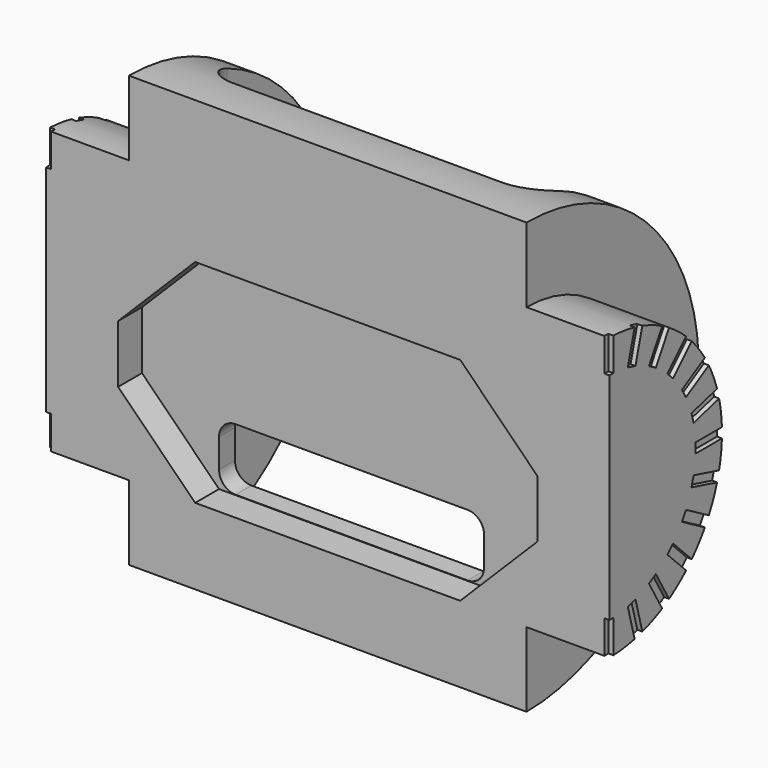
from build123d import *

# Parameters (mm, degrees)
REVOLUTION003_ANGLE                = -180
POCKET007_DEPTH                    = 80.350833
POCKET041_DEPTH                    = 1.8
SKETCH021_W                        = 20
SKETCH021_H                        = 30
POCKET009_DEPTH                    = 10.001
SKETCH022_W                        = 0.6
SKETCH022_H                        = 2
POCKET010_DEPTH                    = 0.3
SKETCH022_POLARPATTERN001_2_W      = 0.6
SKETCH022_POLARPATTERN001_2_H      = 2
POCKET010_POLARPATTERN001_2_DEPTH  = 0.3
SKETCH022_POLARPATTERN001_3_W      = 0.6
SKETCH022_POLARPATTERN001_3_H      = 2
POCKET010_POLARPATTERN001_3_DEPTH  = 0.3
SKETCH022_POLARPATTERN001_4_W      = 0.6
SKETCH022_POLARPATTERN001_4_H      = 2
POCKET010_POLARPATTERN001_4_DEPTH  = 0.3
SKETCH022_POLARPATTERN001_5_W      = 0.6
SKETCH022_POLARPATTERN001_5_H      = 2
POCKET010_POLARPATTERN001_5_DEPTH  = 0.3
SKETCH022_POLARPATTERN001_6_W      = 0.6
SKETCH022_POLARPATTERN001_6_H      = 2
POCKET010_POLARPATTERN001_6_DEPTH  = 0.3
SKETCH022_POLARPATTERN001_7_W      = 0.6
SKETCH022_POLARPATTERN001_7_H      = 2
POCKET010_POLARPATTERN001_7_DEPTH  = 0.3
SKETCH022_POLARPATTERN001_8_W      = 0.6
SKETCH022_POLARPATTERN001_8_H      = 2
POCKET010_POLARPATTERN001_8_DEPTH  = 0.3
SKETCH022_POLARPATTERN001_9_W      = 0.6
SKETCH022_POLARPATTERN001_9_H      = 2
POCKET010_POLARPATTERN001_9_DEPTH  = 0.3
SKETCH022_POLARPATTERN001_10_W     = 0.6
SKETCH022_POLARPATTERN001_10_H     = 2
POCKET010_POLARPATTERN001_10_DEPTH = 0.3
SKETCH022_POLARPATTERN001_11_W     = 0.6
SKETCH022_POLARPATTERN001_11_H     = 2
POCKET010_POLARPATTERN001_11_DEPTH = 0.3
SKETCH022_POLARPATTERN001_12_W     = 0.6
SKETCH022_POLARPATTERN001_12_H     = 2
POCKET010_POLARPATTERN001_12_DEPTH = 0.3
SKETCH022_POLARPATTERN001_13_W     = 0.6
SKETCH022_POLARPATTERN001_13_H     = 2
POCKET010_POLARPATTERN001_13_DEPTH = 0.3
FILLET006_R                        = 1.9


with BuildPart() as part:
    # Sketch011 → Revolution003 (revolve)
    with BuildSketch(Plane.XZ):
        Polygon((0, 13), (12, 13), (12, 8.5), (17, 8.5), (17, 0), (0, 0), align=None)
    revolution003 = revolve(axis=Axis((0, 0, 0), (1, 0, 0)), revolution_arc=REVOLUTION003_ANGLE)

    # Sketch017 → Pocket007 (cut, through all)
    with BuildSketch(Plane(origin=(0, 0, 0), x_dir=(-1, 0, 0), z_dir=(0, 1, 0))):
        with BuildLine():
            Line((-7, -8.375), (0, -8.375))
            Line((0, -8.375), (0, -4.625))
            Line((-7, -4.625), (0, -4.625))
            ThreePointArc((-7, -4.625), (-7.707107, -4.917893), (-8, -5.625))
            Line((-8, -7.375), (-8, -5.625))
            ThreePointArc((-8, -7.375), (-7.707107, -8.082107), (-7, -8.375))
        make_face()
    pocket007 = extrude(amount=POCKET007_DEPTH, mode=Mode.SUBTRACT)

    # Sketch024 (on XZ_Plane009 of Origin012) → Pocket041 (cut)
    with BuildSketch(Plane.XZ):
        Polygon((8, 4.4), (0, 4.4), (0, -8.4), (8, -8.4), (12.65, -3.75), (12.65, -0.25), align=None)
    pocket041 = extrude(amount=-POCKET041_DEPTH, mode=Mode.SUBTRACT)

    # Mirrored001: Revolution003, Pocket007, Pocket041 across Sketch011 V_Axis
    add(revolution003.mirror(Plane(origin=(0, 0, 0), x_dir=(0, -1, 0), z_dir=(1, 0, 0))))
    add(pocket007.mirror(Plane(origin=(0, 0, 0), x_dir=(0, -1, 0), z_dir=(1, 0, 0))), mode=Mode.SUBTRACT)
    add(pocket041.mirror(Plane(origin=(0, 0, 0), x_dir=(0, -1, 0), z_dir=(1, 0, 0))), mode=Mode.SUBTRACT)

    # Sketch021 → Pocket009 (cut, through all)
    with BuildSketch(Plane(origin=(0, 3, 0), x_dir=(-1, 0, 0), z_dir=(0, 1, 0))):
        Rectangle(SKETCH021_W, SKETCH021_H)
    extrude(amount=POCKET009_DEPTH, mode=Mode.SUBTRACT)

    # Sketch022 → Pocket010 (cut)
    with BuildSketch(Plane.YZ.offset(17)):
        with Locations((0, 7.5)):
            Rectangle(SKETCH022_W, SKETCH022_H)
    pocket010 = extrude(amount=-POCKET010_DEPTH, mode=Mode.SUBTRACT)

    # Sketch022 PolarPattern001 2 → Pocket010 PolarPattern001 2 (cut)
    with BuildSketch(Plane(origin=(17, 0, 0), x_dir=(0, 0.965926, -0.258819), z_dir=(1, 0, 0))):
        with Locations((0, 7.5)):
            Rectangle(SKETCH022_POLARPATTERN001_2_W, SKETCH022_POLARPATTERN001_2_H)
    pocket010_polarpattern001_2 = extrude(amount=-POCKET010_POLARPATTERN001_2_DEPTH, mode=Mode.SUBTRACT)

    # Sketch022 PolarPattern001 3 → Pocket010 PolarPattern001 3 (cut)
    with BuildSketch(Plane(origin=(17, 0, 0), x_dir=(0, 0.866025, -0.5), z_dir=(1, 0, 0))):
        with Locations((0, 7.5)):
            Rectangle(SKETCH022_POLARPATTERN001_3_W, SKETCH022_POLARPATTERN001_3_H)
    pocket010_polarpattern001_3 = extrude(amount=-POCKET010_POLARPATTERN001_3_DEPTH, mode=Mode.SUBTRACT)

    # Sketch022 PolarPattern001 4 → Pocket010 PolarPattern001 4 (cut)
    with BuildSketch(Plane(origin=(17, 0, 0), x_dir=(0, 0.707107, -0.707107), z_dir=(1, 0, 0))):
        with Locations((0, 7.5)):
            Rectangle(SKETCH022_POLARPATTERN001_4_W, SKETCH022_POLARPATTERN001_4_H)
    pocket010_polarpattern001_4 = extrude(amount=-POCKET010_POLARPATTERN001_4_DEPTH, mode=Mode.SUBTRACT)

    # Sketch022 PolarPattern001 5 → Pocket010 PolarPattern001 5 (cut)
    with BuildSketch(Plane(origin=(17, 0, 0), x_dir=(0, 0.5, -0.866025), z_dir=(1, 0, 0))):
        with Locations((0, 7.5)):
            Rectangle(SKETCH022_POLARPATTERN001_5_W, SKETCH022_POLARPATTERN001_5_H)
    pocket010_polarpattern001_5 = extrude(amount=-POCKET010_POLARPATTERN001_5_DEPTH, mode=Mode.SUBTRACT)

    # Sketch022 PolarPattern001 6 → Pocket010 PolarPattern001 6 (cut)
    with BuildSketch(Plane(origin=(17, 0, 0), x_dir=(0, 0.258819, -0.965926), z_dir=(1, 0, 0))):
        with Locations((0, 7.5)):
            Rectangle(SKETCH022_POLARPATTERN001_6_W, SKETCH022_POLARPATTERN001_6_H)
    pocket010_polarpattern001_6 = extrude(amount=-POCKET010_POLARPATTERN001_6_DEPTH, mode=Mode.SUBTRACT)

    # Sketch022 PolarPattern001 7 → Pocket010 PolarPattern001 7 (cut)
    with BuildSketch(Plane(origin=(17, 0, 0), x_dir=(0, 0, -1), z_dir=(1, 0, 0))):
        with Locations((0, 7.5)):
            Rectangle(SKETCH022_POLARPATTERN001_7_W, SKETCH022_POLARPATTERN001_7_H)
    pocket010_polarpattern001_7 = extrude(amount=-POCKET010_POLARPATTERN001_7_DEPTH, mode=Mode.SUBTRACT)

    # Sketch022 PolarPattern001 8 → Pocket010 PolarPattern001 8 (cut)
    with BuildSketch(Plane(origin=(17, 0, 0), x_dir=(0, -0.258819, -0.965926), z_dir=(1, 0, 0))):
        with Locations((0, 7.5)):
            Rectangle(SKETCH022_POLARPATTERN001_8_W, SKETCH022_POLARPATTERN001_8_H)
    pocket010_polarpattern001_8 = extrude(amount=-POCKET010_POLARPATTERN001_8_DEPTH, mode=Mode.SUBTRACT)

    # Sketch022 PolarPattern001 9 → Pocket010 PolarPattern001 9 (cut)
    with BuildSketch(Plane(origin=(17, 0, 0), x_dir=(0, -0.5, -0.866025), z_dir=(1, 0, 0))):
        with Locations((0, 7.5)):
            Rectangle(SKETCH022_POLARPATTERN001_9_W, SKETCH022_POLARPATTERN001_9_H)
    pocket010_polarpattern001_9 = extrude(amount=-POCKET010_POLARPATTERN001_9_DEPTH, mode=Mode.SUBTRACT)

    # Sketch022 PolarPattern001 10 → Pocket010 PolarPattern001 10 (cut)
    with BuildSketch(Plane(origin=(17, 0, 0), x_dir=(0, -0.707107, -0.707107), z_dir=(1, 0, 0))):
        with Locations((0, 7.5)):
            Rectangle(SKETCH022_POLARPATTERN001_10_W, SKETCH022_POLARPATTERN001_10_H)
    pocket010_polarpattern001_10 = extrude(amount=-POCKET010_POLARPATTERN001_10_DEPTH, mode=Mode.SUBTRACT)

    # Sketch022 PolarPattern001 11 → Pocket010 PolarPattern001 11 (cut)
    with BuildSketch(Plane(origin=(17, 0, 0), x_dir=(0, -0.866025, -0.5), z_dir=(1, 0, 0))):
        with Locations((0, 7.5)):
            Rectangle(SKETCH022_POLARPATTERN001_11_W, SKETCH022_POLARPATTERN001_11_H)
    pocket010_polarpattern001_11 = extrude(amount=-POCKET010_POLARPATTERN001_11_DEPTH, mode=Mode.SUBTRACT)

    # Sketch022 PolarPattern001 12 → Pocket010 PolarPattern001 12 (cut)
    with BuildSketch(Plane(origin=(17, 0, 0), x_dir=(0, -0.965926, -0.258819), z_dir=(1, 0, 0))):
        with Locations((0, 7.5)):
            Rectangle(SKETCH022_POLARPATTERN001_12_W, SKETCH022_POLARPATTERN001_12_H)
    pocket010_polarpattern001_12 = extrude(amount=-POCKET010_POLARPATTERN001_12_DEPTH, mode=Mode.SUBTRACT)

    # Sketch022 PolarPattern001 13 → Pocket010 PolarPattern001 13 (cut)
    with BuildSketch(Plane(origin=(17, 0, 0), x_dir=(0, -1, 0), z_dir=(1, 0, 0))):
        with Locations((0, 7.5)):
            Rectangle(SKETCH022_POLARPATTERN001_13_W, SKETCH022_POLARPATTERN001_13_H)
    pocket010_polarpattern001_13 = extrude(amount=-POCKET010_POLARPATTERN001_13_DEPTH, mode=Mode.SUBTRACT)

    # Mirrored005: Pocket010, Pocket010 PolarPattern001 2, Pocket010 PolarPattern001 3, Pocket010 PolarPattern001 4, Pocket010 PolarPattern001 5, Pocket010 PolarPattern001 6, Pocket010 PolarPattern001 7, Pocket010 PolarPattern001 8, Pocket010 PolarPattern001 9, Pocket010 PolarPattern001 10, Pocket010 PolarPattern001 11, Pocket010 PolarPattern001 12, Pocket010 PolarPattern001 13 across YZ
    add(pocket010.mirror(Plane.YZ), mode=Mode.SUBTRACT)
    add(pocket010_polarpattern001_2.mirror(Plane.YZ), mode=Mode.SUBTRACT)
    add(pocket010_polarpattern001_3.mirror(Plane.YZ), mode=Mode.SUBTRACT)
    add(pocket010_polarpattern001_4.mirror(Plane.YZ), mode=Mode.SUBTRACT)
    add(pocket010_polarpattern001_5.mirror(Plane.YZ), mode=Mode.SUBTRACT)
    add(pocket010_polarpattern001_6.mirror(Plane.YZ), mode=Mode.SUBTRACT)
    add(pocket010_polarpattern001_7.mirror(Plane.YZ), mode=Mode.SUBTRACT)
    add(pocket010_polarpattern001_8.mirror(Plane.YZ), mode=Mode.SUBTRACT)
    add(pocket010_polarpattern001_9.mirror(Plane.YZ), mode=Mode.SUBTRACT)
    add(pocket010_polarpattern001_10.mirror(Plane.YZ), mode=Mode.SUBTRACT)
    add(pocket010_polarpattern001_11.mirror(Plane.YZ), mode=Mode.SUBTRACT)
    add(pocket010_polarpattern001_12.mirror(Plane.YZ), mode=Mode.SUBTRACT)
    add(pocket010_polarpattern001_13.mirror(Plane.YZ), mode=Mode.SUBTRACT)

    # Fillet006
    fillet006_edges = [part.edges().sort_by_distance(p)[0] for p in [
        (-10, 3, 0),
        (10, 3, 0),
    ]]
    fillet(fillet006_edges, radius=FILLET006_R)


solid = part.part
